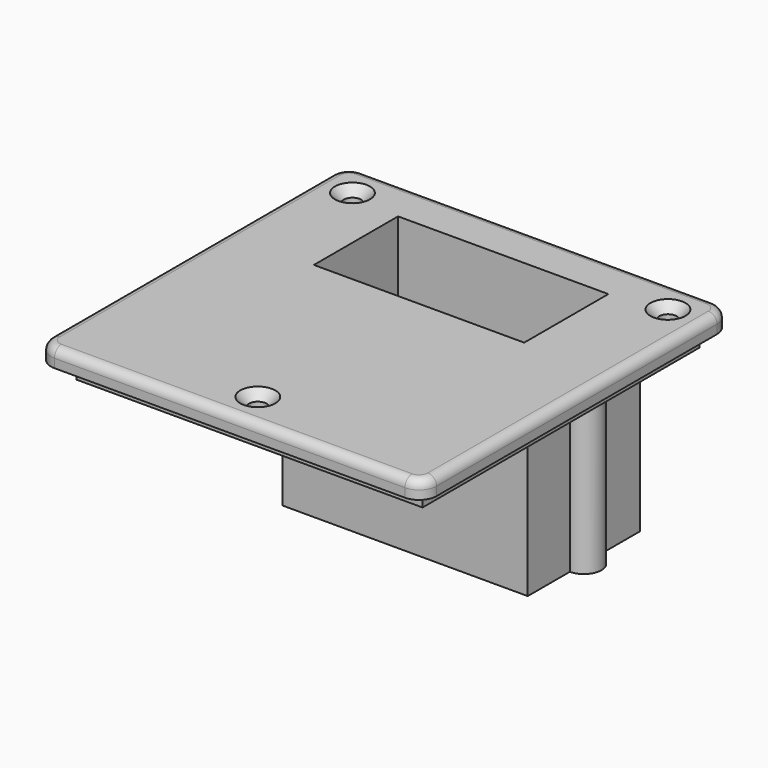
from build123d import *

# Parameters (mm, degrees)
SKETCH004_R      = 1
SKETCH004_W      = 24
SKETCH004_H      = 12
EXTRUDE003_DEPTH = 22
SKETCH006_W      = 39.5
SKETCH006_H      = 39.5
SKETCH006_W_2    = 37.5
SKETCH006_H_2    = 37.5
EXTRUDE004_DEPTH = 2
SKETCH003_R      = 1
SKETCH003_W      = 24
SKETCH003_H      = 12
EXTRUDE002_DEPTH = 2
FILLET001_R      = 1
CHAMFER_SIZE     = 1


with BuildPart() as extrude003:
    # Sketch004 → Extrude003 (new body)
    with BuildSketch(Plane.XY):
        with BuildLine():
            Line((34, 39), (6, 39))
            Line((6, 39), (6, 33))
            ThreePointArc((6, 33), (4, 31), (6, 29))
            Line((6, 29), (6, 23))
            Line((6, 23), (34, 23))
            Line((34, 23), (34, 29))
            ThreePointArc((34, 29), (36, 31), (34, 33))
            Line((34, 33), (34, 39))
        make_face()
        with Locations((6, 31)):
            Circle(SKETCH004_R, mode=Mode.SUBTRACT)
        with Locations((34, 31)):
            Circle(SKETCH004_R, mode=Mode.SUBTRACT)
        with Locations((20, 31)):
            Rectangle(SKETCH004_W, SKETCH004_H, mode=Mode.SUBTRACT)
    extrude(amount=-EXTRUDE003_DEPTH)


with BuildPart() as extrude004:
    # Sketch006 → Extrude004 (new body)
    with BuildSketch(Plane.XY):
        with Locations((20.25, 20.25)):
            Rectangle(SKETCH006_W, SKETCH006_H)
        with Locations((20.25, 20.25)):
            Rectangle(SKETCH006_W_2, SKETCH006_H_2, mode=Mode.SUBTRACT)
    extrude(amount=-EXTRUDE004_DEPTH)


with BuildPart() as chamfer_body:
    # Sketch003 → Extrude002 (new body)
    with BuildSketch(Plane.XY):
        with BuildLine():
            Line((0, -2), (40, -2))
            ThreePointArc((40, -2), (41.414214, -1.414214), (42, 0))
            Line((42, 0), (42, 40))
            ThreePointArc((42, 40), (41.414214, 41.414214), (40, 42))
            Line((40, 42), (0, 42))
            ThreePointArc((0, 42), (-1.414214, 41.414214), (-2, 40))
            Line((-2, 40), (-2, 0))
            ThreePointArc((-2, 0), (-1.414214, -1.414214), (0, -2))
        make_face()
        with Locations((2, 38)):
            Circle(SKETCH003_R, mode=Mode.SUBTRACT)
        with Locations((38, 38)):
            Circle(SKETCH003_R, mode=Mode.SUBTRACT)
        with Locations((20, 2)):
            Circle(SKETCH003_R, mode=Mode.SUBTRACT)
        with Locations((20, 31)):
            Rectangle(SKETCH003_W, SKETCH003_H, mode=Mode.SUBTRACT)
    extrude(amount=EXTRUDE002_DEPTH)

    # Fillet001
    fillet001_edges = [chamfer_body.edges().sort_by_distance(p)[0] for p in [
        (20, 42, 2),
    ]]
    fillet(fillet001_edges, radius=FILLET001_R)

    # Fusion001: union Extrude004
    add(extrude004.part)

    # Fusion002: union Extrude003
    add(extrude003.part)

    # Chamfer
    chamfer_edges = [chamfer_body.edges().sort_by_distance(p)[0] for p in [
        (19, 2, 2),
        (1, 38, 2),
        (37, 38, 2),
    ]]
    chamfer(chamfer_edges, length=CHAMFER_SIZE)


solid = chamfer_body.part
